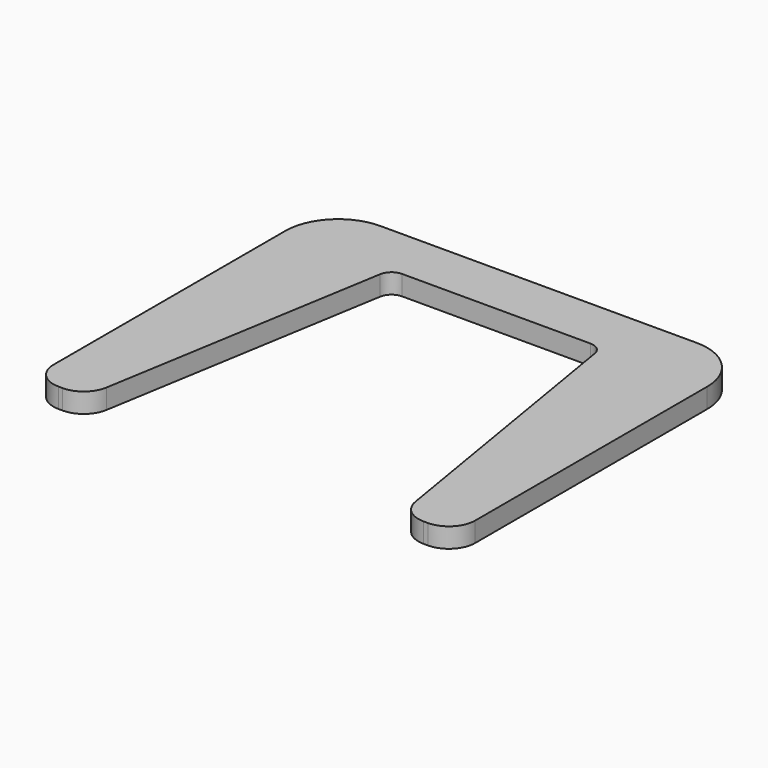
from build123d import *

# Parameters (mm, degrees)
F1_DEPTH = 19.05
F2_R     = 50.8
F3_R     = 25.4
F4_R     = 12.7


with BuildPart() as f1:
    # F0 (on Top) → F1 (new body)
    with BuildSketch(Plane.XY):
        Polygon((203.2, 0), (0, 0), (-101.6, 0), (-101.6, -355.6), (-50.8, -355.6), (0, -50.8), (203.2, -50.8), (254, -355.6), (304.8, -355.6), (304.8, 0), align=None)
    extrude(amount=F1_DEPTH)

    # F2
    f2_edges = [f1.edges().sort_by_distance(p)[0] for p in [
        (-101.6, 0, 9.525),
        (304.8, 0, 9.525),
    ]]
    fillet(f2_edges, radius=F2_R)

    # F3
    f3_edges = [f1.edges().sort_by_distance(p)[0] for p in [
        (-101.6, -355.6, 9.525),
        (-50.8, -355.6, 9.525),
        (304.8, -355.6, 9.525),
        (254, -355.6, 9.525),
    ]]
    fillet(f3_edges, radius=F3_R)

    # F4
    f4_edges = [f1.edges().sort_by_distance(p)[0] for p in [
        (203.2, -50.8, 9.525),
        (0, -50.8, 9.525),
    ]]
    fillet(f4_edges, radius=F4_R)


solid = f1.part
